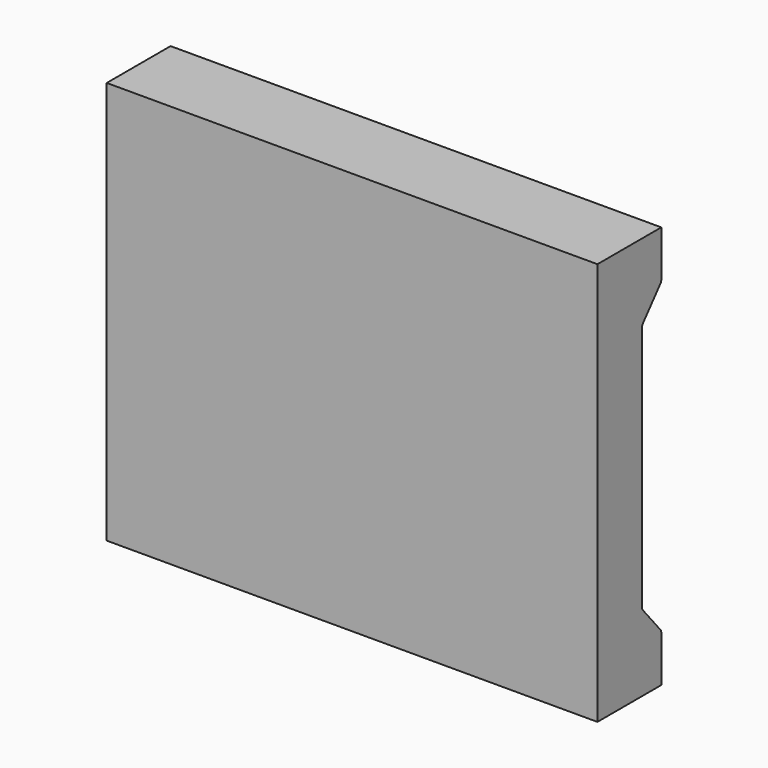
from build123d import *

# Parameters (mm, degrees)
F1_DEPTH = 307.5
F2_R     = 5


with BuildPart() as f1:
    # F0 (on Right) → F1 (new body, symmetric)
    with BuildSketch(Plane.YZ):
        Polygon((14.21269, 392.565014), (14.21269, -112.434986), (114.21269, -112.434986), (114.21269, -52.434986), (84.21269, -16.682378), (84.21269, 296.812407), (114.21269, 332.565014), (114.21269, 392.565014), align=None)
    extrude(amount=F1_DEPTH, both=True)

    # F2
    f2_edges = [f1.edges().sort_by_distance(p)[0] for p in [
        (0, 114.21269, -52.434986),
        (0, 84.21269, -16.682378),
        (0, 84.21269, 296.812407),
        (0, 114.21269, 332.565014),
    ]]
    fillet(f2_edges, radius=F2_R)


solid = f1.part
